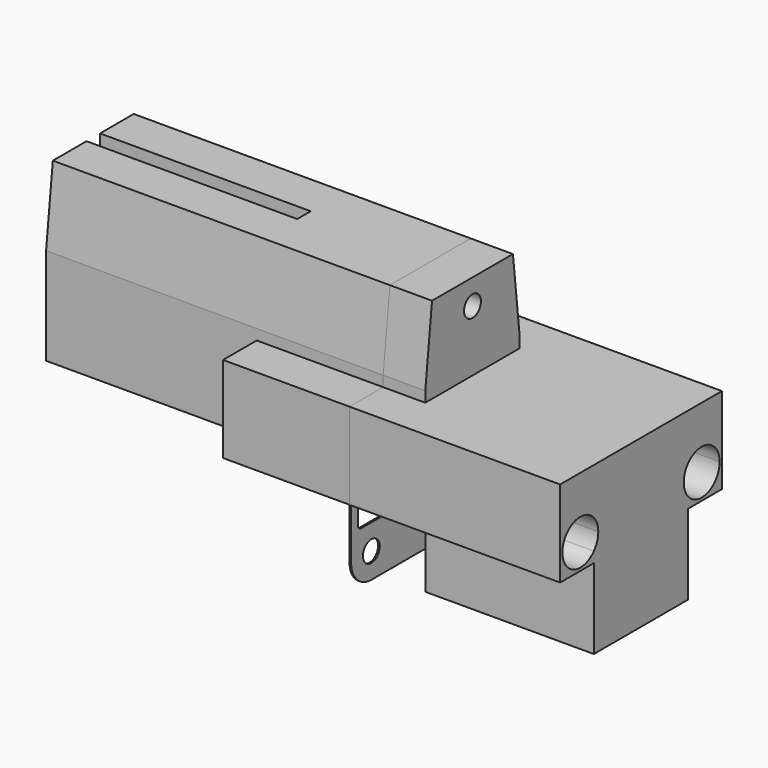
from build123d import *

# Parameters (mm, degrees)
F0_R      = 1.25
F1_DEPTH  = 40
F0_W      = 5
F0_H      = 10.25
F2_DEPTH  = 15
F4_DEPTH  = 25
F5_DEPTH  = 25
F6_R      = 1.25
F6_W      = 1
F6_H      = 1.5
F7_DEPTH  = 0.2
F8_R      = 0.5
F9_DEPTH  = 5
F10_W     = 14
F10_H     = 9.5
F11_DEPTH = 20


with BuildPart() as f1:
    # F0 (on Right) → F1 (new body)
    with BuildSketch(Plane.YZ):
        Polygon((-7, 11.75), (-7, 1.5), (7, 1.5), (7, 11.75), (7, 13), (6, 22), (-6, 22), (-7, 13), align=None)
        with Locations((0, 19)):
            Circle(F0_R, mode=Mode.SUBTRACT)
        with Locations((0, 19)):
            Circle(F0_R)
    extrude(amount=-F1_DEPTH)

    # F0 (on Right) → F2 (join)
    with BuildSketch(Plane.YZ):
        with Locations((-9.5, 6.625)):
            Rectangle(F0_W, F0_H)
        with Locations((-9, 4.5)):
            Circle(F0_R, mode=Mode.SUBTRACT)
        with Locations((9.5, 6.625)):
            Rectangle(F0_W, F0_H)
        with Locations((9, 4.5)):
            Circle(F0_R, mode=Mode.SUBTRACT)
    extrude(amount=-F2_DEPTH)

    # F3 (on face) → F4 (cut)
    with BuildSketch(Plane(origin=(-40, 0, 0), x_dir=(0, -1, 0), z_dir=(-1, 0, 0))):
        with BuildLine():
            ThreePointArc((-1, 17.898979), (-3.162278, 9.127017), (5, 13))
            ThreePointArc((5, 13), (3.872983, 16.162278), (1, 17.898979))
            ThreePointArc((1, 17.898979), (0, 18), (-1, 17.898979))
        make_face()
        with BuildLine():
            ThreePointArc((-1, 17.898979), (0, 18), (1, 17.898979))
            Line((1, 17.898979), (1, 22))
            Line((1, 22), (-1, 22))
            Line((-1, 22), (-1, 17.898979))
        make_face()
    extrude(amount=-F4_DEPTH, mode=Mode.SUBTRACT)

    # F3 (on face) → F5 (cut)
    with BuildSketch(Plane(origin=(-40, 0, 0), x_dir=(0, -1, 0), z_dir=(-1, 0, 0))):
        with BuildLine():
            ThreePointArc((-1, 17.898979), (0, 18), (1, 17.898979))
            Line((1, 17.898979), (1, 22))
            Line((1, 22), (-1, 22))
            Line((-1, 22), (-1, 17.898979))
        make_face()
        with BuildLine():
            ThreePointArc((-1, 17.898979), (-3.162278, 9.127017), (5, 13))
            ThreePointArc((5, 13), (3.872983, 16.162278), (1, 17.898979))
            ThreePointArc((1, 17.898979), (0, 18), (-1, 17.898979))
        make_face()
    extrude(amount=-F5_DEPTH, mode=Mode.SUBTRACT)


with BuildPart() as f7:
    # F6 (on face) → F7 (new body)
    with BuildSketch(Plane.YZ):
        with BuildLine():
            Line((-12, 4.5), (-12, 1.5))
            Line((-12, 1.5), (-11, 1.5))
            Line((-11, 1.5), (-0.5, 1.5))
            Line((-0.5, 1.5), (0.5, 1.5))
            Line((0.5, 1.5), (11, 1.5))
            Line((11, 1.5), (12, 1.5))
            Line((12, 1.5), (12, 4.5))
            ThreePointArc((12, 4.5), (11.12132, 6.62132), (9, 7.5))
            Line((9, 7.5), (-9, 7.5))
            ThreePointArc((-9, 7.5), (-11.12132, 6.62132), (-12, 4.5))
        make_face()
        with Locations((-9, 4.5)):
            Circle(F6_R, mode=Mode.SUBTRACT)
        with Locations((9, 4.5)):
            Circle(F6_R, mode=Mode.SUBTRACT)
        with Locations((-11.5, 0.75)):
            Rectangle(F6_W, F6_H)
        with Locations((-11.5, -0.75)):
            Rectangle(F6_W, F6_H)
        with Locations((0, 0.75)):
            Rectangle(F6_W, F6_H)
        with Locations((0, -0.75)):
            Rectangle(F6_W, F6_H)
        with Locations((11.5, 0.75)):
            Rectangle(F6_W, F6_H)
        with Locations((11.5, -0.75)):
            Rectangle(F6_W, F6_H)
        with BuildLine():
            Line((-11, -1.5), (-12, -1.5))
            Line((-12, -1.5), (-12, -4.5))
            ThreePointArc((-12, -4.5), (-11.12132, -6.62132), (-9, -7.5))
            Line((-9, -7.5), (9, -7.5))
            ThreePointArc((9, -7.5), (11.12132, -6.62132), (12, -4.5))
            Line((12, -4.5), (12, -1.5))
            Line((12, -1.5), (11, -1.5))
            Line((11, -1.5), (0.5, -1.5))
            Line((0.5, -1.5), (-0.5, -1.5))
            Line((-0.5, -1.5), (-11, -1.5))
        make_face()
        with Locations((-9, -4.5)):
            Circle(F6_R, mode=Mode.SUBTRACT)
        with Locations((9, -4.5)):
            Circle(F6_R, mode=Mode.SUBTRACT)
    extrude(amount=F7_DEPTH)

    # F8
    f8_edges = [f7.edges().sort_by_distance(p)[0] for p in [
        (0.1, -0.5, 1.5),
        (0.1, -11, 1.5),
        (0.1, -0.5, -1.5),
        (0.1, -11, -1.5),
        (0.1, 0.5, -1.5),
        (0.1, 11, 1.5),
        (0.1, 0.5, 1.5),
        (0.1, 11, -1.5),
    ]]
    fillet(f8_edges, radius=F8_R)


with BuildPart() as f9:
    # F0 (on Right) → F9 (new body)
    with BuildSketch(Plane.YZ):
        with Locations((-9.5, 6.625)):
            Rectangle(F0_W, F0_H)
        with Locations((-9, 4.5)):
            Circle(F0_R, mode=Mode.SUBTRACT)
        Polygon((-7, 11.75), (-7, 1.5), (7, 1.5), (7, 11.75), (7, 13), (6, 22), (-6, 22), (-7, 13), align=None)
        with Locations((0, 19)):
            Circle(F0_R, mode=Mode.SUBTRACT)
        with Locations((9.5, 6.625)):
            Rectangle(F0_W, F0_H)
        with Locations((9, 4.5)):
            Circle(F0_R, mode=Mode.SUBTRACT)
    extrude(amount=F9_DEPTH)

    # F10 (on face) → F11 (join)
    with BuildSketch(Plane.YZ.offset(5)):
        with Locations((0, -3.25)):
            Rectangle(F10_W, F10_H)
        with BuildLine():
            Line((7, 11.75), (-7, 11.75))
            Line((-7, 11.75), (-7, 6.253739))
            ThreePointArc((-7, 6.253739), (-6.510462, 5.43691), (-6.34, 4.5))
            ThreePointArc((-6.34, 4.5), (-6.510462, 3.56309), (-7, 2.746261))
            Line((-7, 2.746261), (-7, 1.5))
            Line((-7, 1.5), (7, 1.5))
            Line((7, 1.5), (7, 2.746261))
            ThreePointArc((7, 2.746261), (6.34, 4.5), (7, 6.253739))
            Line((7, 6.253739), (7, 11.75))
        make_face()
        with BuildLine():
            Line((-7, 6.253739), (-7, 11.75))
            Line((-7, 11.75), (-12, 11.75))
            Line((-12, 11.75), (-12, 1.5))
            Line((-12, 1.5), (-7, 1.5))
            Line((-7, 1.5), (-7, 2.746261))
            ThreePointArc((-7, 2.746261), (-11.66, 4.5), (-7, 6.253739))
        make_face()
        with BuildLine():
            Line((12, 11.75), (7, 11.75))
            Line((7, 11.75), (7, 6.253739))
            ThreePointArc((7, 6.253739), (9.93691, 6.989538), (11.66, 4.5))
            ThreePointArc((11.66, 4.5), (9.93691, 2.010462), (7, 2.746261))
            Line((7, 2.746261), (7, 1.5))
            Line((7, 1.5), (12, 1.5))
            Line((12, 1.5), (12, 11.75))
        make_face()
    extrude(amount=F11_DEPTH)


solid = Compound([f1.part, f7.part, f9.part])
